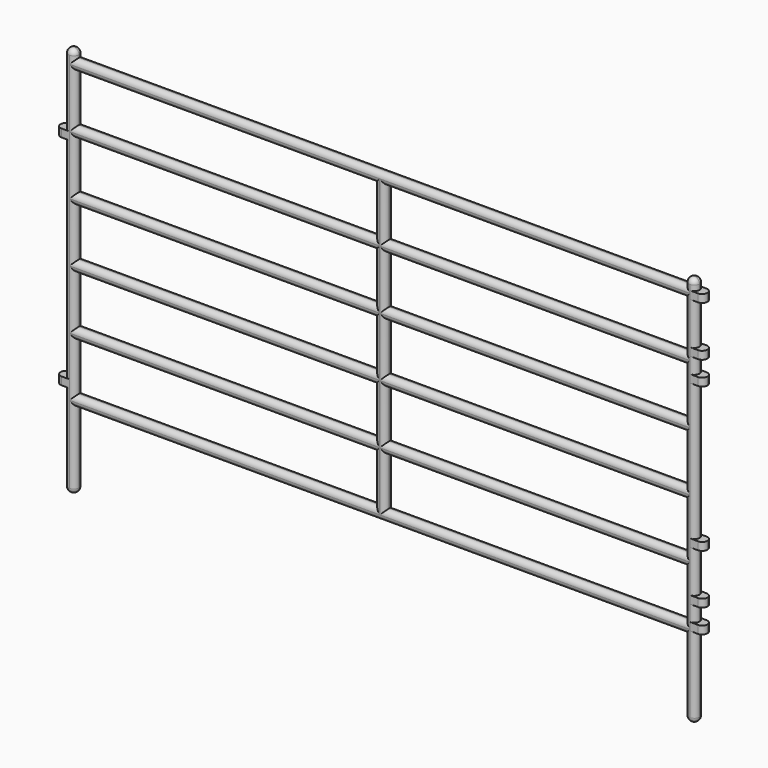
from build123d import *

# Parameters (mm, degrees)
F0_W     = 22.621875
F0_H     = 3.671092
F0_H_2   = 3.671093
F1_DEPTH = 0.396875
F2_R     = 0.39116


with BuildPart() as f1:
    # F0 (on Front) → F1 (new body, symmetric)
    with BuildSketch(Plane.XZ):
        with BuildLine():
            Line((-46.0375, 0), (0, 0))
            Line((0, 0), (0, -5.457038))
            ThreePointArc((0, -5.457038), (0.396875, -5.853913), (0.79375, -5.457038))
            Line((0.79375, -5.457038), (0.79375, 0.29765))
            Line((0.79375, 0.29765), (1.389063, 0.29765))
            Line((1.389063, 0.29765), (1.389063, 0.892962))
            Line((1.389063, 0.892962), (0.79375, 0.892962))
            Line((0.79375, 0.892962), (0.79375, 2.083587))
            Line((0.79375, 2.083587), (1.389063, 2.083587))
            Line((1.389063, 2.083587), (1.389063, 2.6789))
            Line((1.389063, 2.6789), (0.79375, 2.6789))
            Line((0.79375, 2.6789), (0.79375, 5.8539))
            Line((0.79375, 5.8539), (1.389063, 5.8539))
            Line((1.389063, 5.8539), (1.389063, 6.449212))
            Line((1.389063, 6.449212), (0.79375, 6.449212))
            Line((0.79375, 6.449212), (0.79375, 16.767962))
            Line((0.79375, 16.767962), (1.389063, 16.767962))
            Line((1.389063, 16.767962), (1.389063, 17.363275))
            Line((1.389063, 17.363275), (0.79375, 17.363275))
            Line((0.79375, 17.363275), (0.79375, 18.5539))
            Line((0.79375, 18.5539), (1.389063, 18.5539))
            Line((1.389063, 18.5539), (1.389063, 19.149212))
            Line((1.389063, 19.149212), (0.79375, 19.149212))
            Line((0.79375, 19.149212), (0.79375, 22.324212))
            Line((0.79375, 22.324212), (1.389063, 22.324212))
            Line((1.389063, 22.324212), (1.389063, 22.919525))
            Line((1.389063, 22.919525), (0.79375, 22.919525))
            Line((0.79375, 22.919525), (0.79375, 23.117962))
            Line((0.79375, 23.117962), (0.79375, 23.3164))
            ThreePointArc((0.79375, 23.3164), (0.396875, 23.713275), (0, 23.3164))
            Line((0, 23.3164), (0, 23.117962))
            Line((0, 23.117962), (-46.0375, 23.117962))
            Line((-46.0375, 23.117962), (-46.0375, 23.3164))
            ThreePointArc((-46.0375, 23.3164), (-46.434375, 23.713275), (-46.83125, 23.3164))
            Line((-46.83125, 23.3164), (-46.83125, 23.117962))
            Line((-46.83125, 23.117962), (-46.83125, 18.256242))
            Line((-46.83125, 18.256242), (-47.426563, 18.256242))
            Line((-47.426563, 18.256242), (-47.426563, 17.66093))
            Line((-47.426563, 17.66093), (-46.83125, 17.66093))
            Line((-46.83125, 17.66093), (-46.83125, 1.78593))
            Line((-46.83125, 1.78593), (-47.426563, 1.78593))
            Line((-47.426563, 1.78593), (-47.426563, 1.190617))
            Line((-47.426563, 1.190617), (-46.83125, 1.190617))
            Line((-46.83125, 1.190617), (-46.83125, -5.457038))
            ThreePointArc((-46.83125, -5.457038), (-46.434375, -5.853913), (-46.0375, -5.457038))
            Line((-46.0375, -5.457038), (-46.0375, 0))
        make_face()
        with Locations((-34.726562, 2.629296)):
            Rectangle(F0_W, F0_H, mode=Mode.SUBTRACT)
        with Locations((-34.726562, 7.094138)):
            Rectangle(F0_W, F0_H_2, mode=Mode.SUBTRACT)
        with Locations((-11.310937, 2.629296)):
            Rectangle(F0_W, F0_H, mode=Mode.SUBTRACT)
        with Locations((-11.310937, 7.094138)):
            Rectangle(F0_W, F0_H_2, mode=Mode.SUBTRACT)
        with Locations((-34.726562, 11.558981)):
            Rectangle(F0_W, F0_H, mode=Mode.SUBTRACT)
        with Locations((-34.726562, 16.023823)):
            Rectangle(F0_W, F0_H_2, mode=Mode.SUBTRACT)
        with Locations((-34.726562, 20.488666)):
            Rectangle(F0_W, F0_H, mode=Mode.SUBTRACT)
        with Locations((-11.310937, 11.558981)):
            Rectangle(F0_W, F0_H, mode=Mode.SUBTRACT)
        with Locations((-11.310937, 16.023823)):
            Rectangle(F0_W, F0_H_2, mode=Mode.SUBTRACT)
        with Locations((-11.310937, 20.488666)):
            Rectangle(F0_W, F0_H, mode=Mode.SUBTRACT)
    extrude(amount=F1_DEPTH, both=True)

    # F2
    f2_edges = [f1.edges().sort_by_distance(p)[0] for p in [
        (-23.01875, -0.396875, 23.117962),
        (-11.310937, -0.396875, 22.324212),
        (0, -0.396875, 23.217181),
        (0.396875, -0.396875, 23.713275),
        (1.389063, -0.396875, 22.621869),
        (0.79375, -0.396875, 23.117962),
        (0, -0.396875, 20.488666),
        (0.79375, -0.396875, 20.736712),
        (1.389063, 0.396875, 22.621869),
        (1.389063, -0.396875, 18.851556),
        (1.389063, 0.396875, 18.851556),
        (0.79375, 0.396875, 20.736712),
        (0.79375, 0.396875, 23.117962),
        (0.396875, 0.396875, 23.713275),
        (-23.01875, 0.396875, 23.117962),
        (-11.310937, 0.396875, 18.65312),
        (-11.310937, -0.396875, 18.65312),
        (-11.310937, -0.396875, 17.85937),
        (0.79375, -0.396875, 17.958587),
        (0.79375, 0.396875, 17.958587),
        (1.389063, 0.396875, 17.065619),
        (1.389063, -0.396875, 17.065619),
        (0, -0.396875, 16.023824),
        (0.79375, -0.396875, 11.608587),
        (0.79375, 0.396875, 11.608587),
        (-11.310937, -0.396875, 14.188277),
        (-11.310937, 0.396875, 14.188277),
        (-11.310937, -0.396875, 13.394527),
        (0, -0.396875, 11.558981),
        (-11.310937, -0.396875, 9.723435),
        (-11.310937, 0.396875, 9.723435),
        (-11.310937, -0.396875, 8.929685),
        (0, -0.396875, 7.094139),
        (1.389063, 0.396875, 6.151556),
        (1.389063, -0.396875, 6.151556),
        (0.79375, -0.396875, 4.2664),
        (0.79375, 0.396875, 4.2664),
        (-11.310937, -0.396875, 5.258592),
        (-11.310937, 0.396875, 5.258592),
        (-11.310937, -0.396875, 4.464842),
        (0, -0.396875, 2.629296),
        (1.389063, -0.396875, 2.381244),
        (1.389063, 0.396875, 2.381244),
        (0.79375, -0.396875, 1.488275),
        (0.79375, 0.396875, 1.488275),
        (-11.310937, -0.396875, 0.79375),
        (-11.310937, 0.396875, 0.79375),
        (-23.01875, -0.396875, 0),
        (1.389063, -0.396875, 0.595306),
        (1.389063, 0.396875, 0.595306),
        (0.79375, -0.396875, -2.579694),
        (0.79375, 0.396875, -2.579694),
        (0.396875, -0.396875, -5.853913),
        (0, -0.396875, -2.728519),
        (0.79375, 0, -5.457038),
        (0.396875, 0.396875, -5.853913),
        (-34.726562, -0.396875, 0.79375),
        (-34.726562, 0.396875, 0.79375),
        (-23.415625, -0.396875, 2.629296),
        (-22.621875, -0.396875, 2.629296),
        (-22.621875, 0.396875, 2.629296),
        (-34.726562, -0.396875, 4.464842),
        (-34.726562, -0.396875, 5.258592),
        (-34.726562, 0.396875, 5.258592),
        (-23.415625, -0.396875, 7.094139),
        (-22.621875, -0.396875, 7.094139),
        (-22.621875, 0.396875, 7.094139),
        (-34.726562, -0.396875, 8.929685),
        (-34.726562, -0.396875, 9.723435),
        (-34.726562, 0.396875, 9.723435),
        (-23.415625, -0.396875, 11.558981),
        (-22.621875, -0.396875, 11.558981),
        (-22.621875, 0.396875, 11.558981),
        (-34.726562, -0.396875, 13.394527),
        (-34.726562, -0.396875, 14.188277),
        (-34.726562, 0.396875, 14.188277),
        (-23.415625, -0.396875, 16.023824),
        (-22.621875, -0.396875, 16.023824),
        (-22.621875, 0.396875, 16.023824),
        (-34.726562, -0.396875, 17.85937),
        (-34.726562, -0.396875, 18.65312),
        (-34.726562, 0.396875, 18.65312),
        (-23.415625, -0.396875, 20.488666),
        (-22.621875, -0.396875, 20.488666),
        (-22.621875, 0.396875, 20.488666),
        (-34.726562, -0.396875, 22.324212),
        (-46.0375, -0.396875, 20.488666),
        (-46.0375, 0.396875, 20.488666),
        (-46.0375, -0.396875, 23.217181),
        (-46.0375, 0.396875, 23.217181),
        (-46.434375, 0.396875, 23.713275),
        (-46.434375, -0.396875, 23.713275),
        (-46.83125, -0.396875, 20.786321),
        (-47.426563, -0.396875, 17.958586),
        (-46.83125, -0.396875, 9.72343),
        (-46.0375, -0.396875, 16.023824),
        (-46.0375, 0.396875, 16.023824),
        (-46.0375, 0.396875, 11.558981),
        (-46.0375, -0.396875, 11.558981),
        (-46.0375, -0.396875, 7.094139),
        (-46.0375, 0.396875, 7.094139),
        (-46.0375, -0.396875, 2.629296),
        (-46.0375, 0.396875, 2.629296),
        (-46.0375, -0.396875, -2.728519),
        (-46.0375, 0.396875, -2.728519),
        (-46.83125, -0.396875, -2.13321),
        (-46.434375, -0.396875, -5.853913),
        (-46.434375, 0.396875, -5.853913),
        (-47.426563, -0.396875, 1.488274),
        (-23.01875, 0.396875, 0),
        (-34.726562, 0.396875, 4.464842),
        (-46.83125, 0.396875, 9.72343),
        (-47.426563, 0.396875, 1.488274),
        (-46.83125, 0.396875, -2.13321),
        (-46.83125, 0, -5.457038),
        (-34.726562, 0.396875, 8.929685),
        (-34.726562, 0.396875, 13.394527),
        (-47.426563, 0.396875, 17.958586),
        (-34.726562, 0.396875, 17.85937),
        (-34.726562, 0.396875, 22.324212),
        (-46.83125, 0, 23.3164),
        (-11.310937, 0.396875, 4.464842),
        (-23.415625, 0.396875, 2.629296),
        (-23.415625, 0.396875, 7.094139),
        (-23.415625, 0.396875, 11.558981),
        (-11.310937, 0.396875, 8.929685),
        (-11.310937, 0.396875, 13.394527),
        (-23.415625, 0.396875, 16.023824),
        (-11.310937, 0.396875, 17.85937),
        (-11.310937, 0.396875, 22.324212),
        (-23.415625, 0.396875, 20.488666),
        (0, 0.396875, 20.488666),
        (0, 0.396875, 16.023824),
        (0, 0.396875, 23.217181),
        (0, 0.396875, 11.558981),
        (0, 0.396875, 7.094139),
        (0, 0.396875, 2.629296),
        (0, 0.396875, -2.728519),
        (0, 0, -5.457038),
    ]]
    fillet(f2_edges, radius=F2_R)


solid = f1.part
